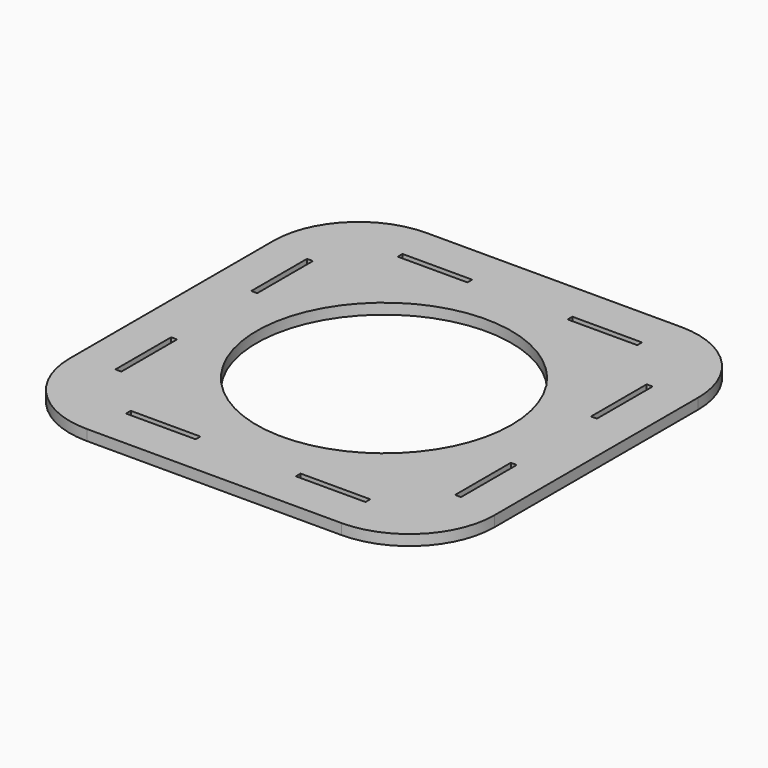
from build123d import *

# Parameters (mm, degrees)
F0_W     = 20.828
F0_H     = 1.778
F0_W_2   = 1.778
F0_H_2   = 20.828
F0_R     = 38.1
F1_DEPTH = 3.175


with BuildPart() as f1:
    # F0 (on Top) → F1 (new body)
    with BuildSketch(Plane.XY):
        with BuildLine():
            ThreePointArc((208.386553, -36.5125), (215.826041, -54.473012), (233.786553, -61.9125))
            Line((233.786553, -61.9125), (309.986553, -61.9125))
            ThreePointArc((309.986553, -61.9125), (327.947065, -54.473012), (335.386553, -36.5125))
            Line((335.386553, -36.5125), (335.386553, 39.6875))
            ThreePointArc((335.386553, 39.6875), (327.947065, 57.648012), (309.986553, 65.0875))
            Line((309.986553, 65.0875), (233.786553, 65.0875))
            ThreePointArc((233.786553, 65.0875), (215.826041, 57.648012), (208.386553, 39.6875))
            Line((208.386553, 39.6875), (208.386553, -36.5125))
        make_face()
        with Locations((246.486553, -49.2125)):
            Rectangle(F0_W, F0_H, mode=Mode.SUBTRACT)
        with Locations((221.086553, -23.8125)):
            Rectangle(F0_W_2, F0_H_2, mode=Mode.SUBTRACT)
        with Locations((297.286553, -49.2125)):
            Rectangle(F0_W, F0_H, mode=Mode.SUBTRACT)
        with Locations((271.886553, 1.5875)):
            Circle(F0_R, mode=Mode.SUBTRACT)
        with Locations((322.686553, -23.8125)):
            Rectangle(F0_W_2, F0_H_2, mode=Mode.SUBTRACT)
        with Locations((221.086553, 26.9875)):
            Rectangle(F0_W_2, F0_H_2, mode=Mode.SUBTRACT)
        with Locations((246.486553, 52.3875)):
            Rectangle(F0_W, F0_H, mode=Mode.SUBTRACT)
        with Locations((322.686553, 26.9875)):
            Rectangle(F0_W_2, F0_H_2, mode=Mode.SUBTRACT)
        with Locations((297.286553, 52.3875)):
            Rectangle(F0_W, F0_H, mode=Mode.SUBTRACT)
    extrude(amount=F1_DEPTH)


solid = f1.part
